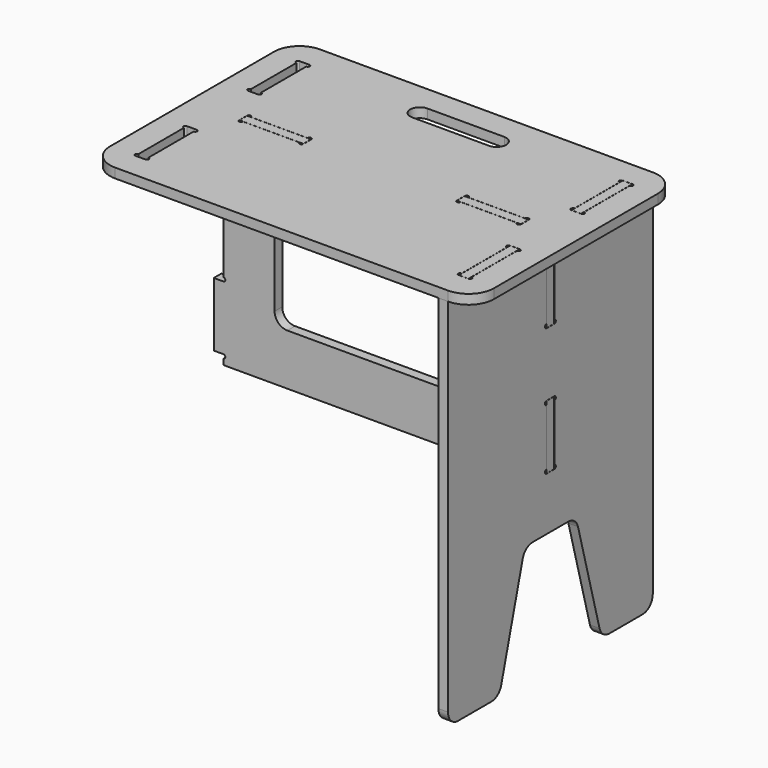
from build123d import *

# Parameters (mm, degrees)
SKETCH_W             = 15.4
SKETCH_H             = 100.4
SKETCH_W_2           = 100.4
SKETCH_H_2           = 15.4
PAD_DEPTH            = 15
SKETCH003_R          = 3
POCKET_DEPTH         = 15.001
SKETCH001_W          = 15.4
SKETCH001_H          = 100.4
PAD001_DEPTH         = 7.5
FILLET_R             = 20
SKETCH004_R          = 3
POCKET001_DEPTH      = 7.501
POCKET001_DEPTH_BACK = 7.501
SKETCH002_W          = 330
SKETCH002_H          = 170
PAD002_DEPTH         = 7.5
FILLET001_R          = 20
SKETCH005_R          = 3
POCKET002_DEPTH      = 7.501
POCKET002_DEPTH_BACK = 7.501


with BuildPart() as seat:
    # Sketch → Pad (new body)
    with BuildSketch(Plane.XY):
        with BuildLine():
            Line((-260.2, 200), (260.2, 200))
            ThreePointArc((300, 160.2), (288.34285, 188.34285), (260.2, 200))
            Line((300, 160.2), (300, -160.2))
            ThreePointArc((260.2, -200), (288.34285, -188.34285), (300, -160.2))
            Line((260.2, -200), (-260.2, -200))
            ThreePointArc((-300, -160.2), (-288.34285, -188.34285), (-260.2, -200))
            Line((-300, -160.2), (-300, 160.2))
            ThreePointArc((-260.2, 200), (-288.34285, 188.34285), (-300, 160.2))
        make_face()
        with BuildLine():
            ThreePointArc((-60, 160), (-75, 145), (-60, 130))
            Line((-60, 130), (60, 130))
            ThreePointArc((60, 130), (75, 145), (60, 160))
            Line((-60, 160), (60, 160))
        make_face(mode=Mode.SUBTRACT)
        with Locations((-252.5, 110)):
            Rectangle(SKETCH_W, SKETCH_H, mode=Mode.SUBTRACT)
        with Locations((-252.5, -110)):
            Rectangle(SKETCH_W, SKETCH_H, mode=Mode.SUBTRACT)
        with Locations((252.5, 110)):
            Rectangle(SKETCH_W, SKETCH_H, mode=Mode.SUBTRACT)
        with Locations((252.5, -110)):
            Rectangle(SKETCH_W, SKETCH_H, mode=Mode.SUBTRACT)
        with Locations((-170, 0)):
            Rectangle(SKETCH_W_2, SKETCH_H_2, mode=Mode.SUBTRACT)
        with Locations((170, 0)):
            Rectangle(SKETCH_W_2, SKETCH_H_2, mode=Mode.SUBTRACT)
    extrude(amount=-PAD_DEPTH)

    # Sketch003 → Pocket (cut, through all)
    with BuildSketch(Plane.XY):
        with Locations((-260.2, 157.2)):
            Circle(SKETCH003_R)
        with Locations((-244.8, 157.2)):
            Circle(SKETCH003_R)
        with Locations((-260.2, 62.8)):
            Circle(SKETCH003_R)
        with Locations((-244.8, 62.8)):
            Circle(SKETCH003_R)
        with Locations((-217.2, 7.7)):
            Circle(SKETCH003_R)
        with Locations((-122.8, 7.7)):
            Circle(SKETCH003_R)
        with Locations((-260.2, -157.2)):
            Circle(SKETCH003_R)
        with Locations((-244.8, -157.2)):
            Circle(SKETCH003_R)
        with Locations((-260.2, -62.8)):
            Circle(SKETCH003_R)
        with Locations((-244.8, -62.8)):
            Circle(SKETCH003_R)
        with Locations((-217.2, -7.7)):
            Circle(SKETCH003_R)
        with Locations((-122.8, -7.7)):
            Circle(SKETCH003_R)
        with Locations((260.2, 157.2)):
            Circle(SKETCH003_R)
        with Locations((244.8, 157.2)):
            Circle(SKETCH003_R)
        with Locations((260.2, 62.8)):
            Circle(SKETCH003_R)
        with Locations((244.8, 62.8)):
            Circle(SKETCH003_R)
        with Locations((217.2, 7.7)):
            Circle(SKETCH003_R)
        with Locations((122.8, 7.7)):
            Circle(SKETCH003_R)
        with Locations((260.2, -157.2)):
            Circle(SKETCH003_R)
        with Locations((244.8, -157.2)):
            Circle(SKETCH003_R)
        with Locations((260.2, -62.8)):
            Circle(SKETCH003_R)
        with Locations((244.8, -62.8)):
            Circle(SKETCH003_R)
        with Locations((217.2, -7.7)):
            Circle(SKETCH003_R)
        with Locations((122.8, -7.7)):
            Circle(SKETCH003_R)
    extrude(amount=-POCKET_DEPTH, mode=Mode.SUBTRACT)


with BuildPart() as body002:
    # Sketch001 → Pad001 (new body, symmetric)
    with BuildSketch(Plane.YZ):
        Polygon((-200, -600), (-200, -15), (-160, -15), (-160, 0), (-60, 0), (-60, -15), (60, -15), (60, 0), (160, 0), (160, -15), (200, -15), (200, -600), (100, -600), (50, -413.39746), (-50, -413.39746), (-100, -600), align=None)
        with Locations((0, -80)):
            Rectangle(SKETCH001_W, SKETCH001_H, mode=Mode.SUBTRACT)
        with Locations((0, -280)):
            Rectangle(SKETCH001_W, SKETCH001_H, mode=Mode.SUBTRACT)
    extrude(amount=PAD001_DEPTH, both=True)

    # Fillet
    fillet_edges = [body002.edges().sort_by_distance(p)[0] for p in [
        (0, 100, -600),
        (0, 200, -600),
        (0, 50, -413.39746),
        (0, -50, -413.39746),
        (0, -100, -600),
        (0, -200, -600),
    ]]
    fillet(fillet_edges, radius=FILLET_R)

    # Sketch004 → Pocket001 (cut, two sides)
    with BuildSketch(Plane.YZ) as pocket001_sk:
        with Locations((-7.7, -232.8)):
            Circle(SKETCH004_R)
        with Locations((-7.7, -327.2)):
            Circle(SKETCH004_R)
        with Locations((-7.7, -32.8)):
            Circle(SKETCH004_R)
        with Locations((-7.7, -127.2)):
            Circle(SKETCH004_R)
        with Locations((-163, -15)):
            Circle(SKETCH004_R)
        with Locations((-57, -15)):
            Circle(SKETCH004_R)
        with Locations((163, -15)):
            Circle(SKETCH004_R)
        with Locations((57, -15)):
            Circle(SKETCH004_R)
        with Locations((7.7, -32.8)):
            Circle(SKETCH004_R)
        with Locations((7.7, -127.2)):
            Circle(SKETCH004_R)
        with Locations((7.7, -232.8)):
            Circle(SKETCH004_R)
        with Locations((7.7, -327.2)):
            Circle(SKETCH004_R)
    extrude(amount=-POCKET001_DEPTH, mode=Mode.SUBTRACT)
    extrude(pocket001_sk.sketch, amount=POCKET001_DEPTH_BACK, mode=Mode.SUBTRACT)


with BuildPart() as body002_1:
    # Body001 placement: moved
    add(body002.part.moved(Location((-252.5, 0, 0))))


with BuildPart() as body002_2:
    # Clone placement: moved
    add(body002_1.part.moved(Location((252.5, 0, 0))))


with BuildPart() as body002_3:
    # Body002 placement: moved
    add(body002_2.part.moved(Location((252.5, 0, 0))))


with BuildPart() as structure:
    # Sketch002 → Pad002 (new body, symmetric)
    with BuildSketch(Plane.XZ):
        Polygon((-220, -15), (-220, 0), (-120, 0), (-120, -15), (120, -15), (120, 0), (220, 0), (220, -15), (245, -15), (245, -30), (260, -30), (260, -130), (245, -130), (245, -230), (260, -230), (260, -330), (245, -330), (245, -345), (-245, -345), (-245, -330), (-260, -330), (-260, -230), (-245, -230), (-245, -130), (-260, -130), (-260, -30), (-245, -30), (-245, -15), align=None)
        with Locations((0, -180)):
            Rectangle(SKETCH002_W, SKETCH002_H, mode=Mode.SUBTRACT)
    extrude(amount=PAD002_DEPTH, both=True)

    # Fillet001
    fillet001_edges = [structure.edges().sort_by_distance(p)[0] for p in [
        (-165, 0, -95),
        (165, 0, -95),
        (165, 0, -265),
        (-165, 0, -265),
    ]]
    fillet(fillet001_edges, radius=FILLET001_R)

    # Sketch005 → Pocket002 (cut, two sides)
    with BuildSketch(Plane.XZ) as pocket002_sk:
        with Locations((-117, -15)):
            Circle(SKETCH005_R)
        with Locations((-223, -15)):
            Circle(SKETCH005_R)
        with Locations((-248, -30)):
            Circle(SKETCH005_R)
        with Locations((-245, -133)):
            Circle(SKETCH005_R)
        with Locations((-245, -227)):
            Circle(SKETCH005_R)
        with Locations((-245, -333)):
            Circle(SKETCH005_R)
        with Locations((117, -15)):
            Circle(SKETCH005_R)
        with Locations((223, -15)):
            Circle(SKETCH005_R)
        with Locations((248, -30)):
            Circle(SKETCH005_R)
        with Locations((245, -133)):
            Circle(SKETCH005_R)
        with Locations((245, -227)):
            Circle(SKETCH005_R)
        with Locations((245, -333)):
            Circle(SKETCH005_R)
    extrude(amount=-POCKET002_DEPTH, mode=Mode.SUBTRACT)
    extrude(pocket002_sk.sketch, amount=POCKET002_DEPTH_BACK, mode=Mode.SUBTRACT)


solid = Compound([seat.part, body002_3.part, structure.part])
